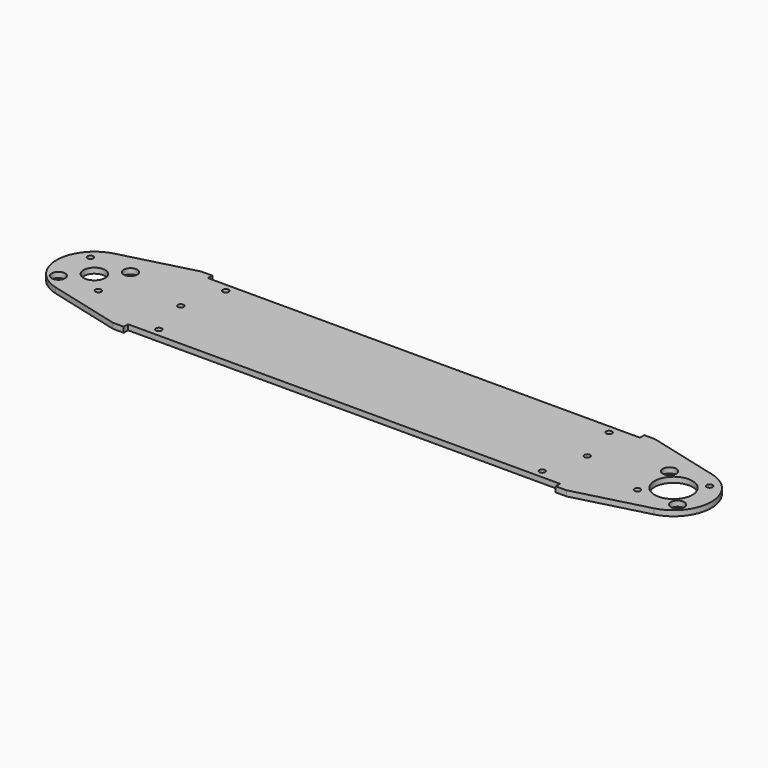
from build123d import *

# Parameters (mm, degrees)
F0_R     = 1.7272
F0_R_2   = 3.96875
F0_R_3   = 6.35
F0_R_4   = 11.1125
F1_DEPTH = 3.175


with BuildPart() as f1:
    # F0 (on Top) → F1 (new body)
    with BuildSketch(Plane.XY):
        with BuildLine():
            Line((-303.612563, 32.54375), (-346.10942, 21.512003))
            ThreePointArc((-346.10942, 21.512003), (-362.750125, 0), (-346.10942, -21.512003))
            Line((-346.10942, -21.512003), (-303.612563, -32.54375))
            Line((-303.612563, -32.54375), (-297.262563, -32.54375))
            Line((-297.262563, -32.54375), (-297.262563, -29.36875))
            Line((-297.262563, -29.36875), (-43.262563, -29.36875))
            Line((-43.262563, -29.36875), (-43.262563, -32.54375))
            Line((-43.262563, -32.54375), (-36.912563, -32.54375))
            Line((-36.912563, -32.54375), (5.584295, -21.512003))
            ThreePointArc((5.584295, -21.512003), (22.225, 0), (5.584295, 21.512003))
            Line((5.584295, 21.512003), (-36.912563, 32.54375))
            Line((-36.912563, 32.54375), (-43.262563, 32.54375))
            Line((-43.262563, 32.54375), (-43.262563, 29.36875))
            Line((-43.262563, 29.36875), (-297.262563, 29.36875))
            Line((-297.262563, 29.36875), (-297.262563, 32.54375))
            Line((-297.262563, 32.54375), (-303.612563, 32.54375))
        make_face()
        with Locations((-282.975063, -24.60625)):
            Circle(F0_R, mode=Mode.SUBTRACT)
        with Locations((-352.311712, -11.786586)):
            Circle(F0_R_2, mode=Mode.SUBTRACT)
        with Locations((-328.738539, -11.786586)):
            Circle(F0_R, mode=Mode.SUBTRACT)
        with Locations((-57.550063, -24.60625)):
            Circle(F0_R, mode=Mode.SUBTRACT)
        with Locations((-11.786586, -11.786586)):
            Circle(F0_R, mode=Mode.SUBTRACT)
        with Locations((11.786586, -11.786586)):
            Circle(F0_R_2, mode=Mode.SUBTRACT)
        with Locations((-340.525125, 0)):
            Circle(F0_R_3, mode=Mode.SUBTRACT)
        with Locations((-289.725125, 0)):
            Circle(F0_R, mode=Mode.SUBTRACT)
        with Locations((-352.311712, 11.786586)):
            Circle(F0_R, mode=Mode.SUBTRACT)
        with Locations((-328.738539, 11.786586)):
            Circle(F0_R_2, mode=Mode.SUBTRACT)
        with Locations((-282.975063, 24.60625)):
            Circle(F0_R, mode=Mode.SUBTRACT)
        with Locations((-50.8, 0)):
            Circle(F0_R, mode=Mode.SUBTRACT)
        Circle(F0_R_4, mode=Mode.SUBTRACT)
        with Locations((-11.786586, 11.786586)):
            Circle(F0_R_2, mode=Mode.SUBTRACT)
        with Locations((11.786586, 11.786586)):
            Circle(F0_R, mode=Mode.SUBTRACT)
        with Locations((-57.550063, 24.60625)):
            Circle(F0_R, mode=Mode.SUBTRACT)
    extrude(amount=F1_DEPTH)


solid = f1.part
